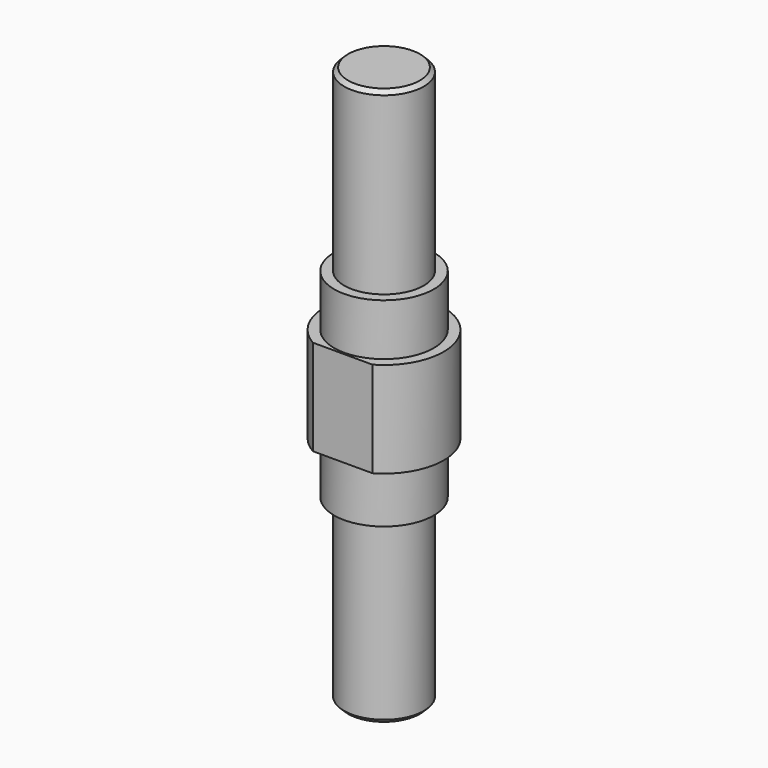
from build123d import *

# Parameters (mm, degrees)
F3_DEPTH      = 25
F3_DEPTH_BACK = 25
F4_SIZE       = 1


with BuildPart() as f1:
    # F0 (on Front) → F1 (revolve)
    with BuildSketch(Plane.XZ):
        Polygon((-12.5, 12), (-15, 12), (-15, 0), (-15, -12), (-12.5, -12), (-12.5, -25), (-10, -25), (-10, -70), (0, -70), (0, 0), (0, 70), (-10, 70), (-10, 25), (-12.5, 25), align=None)
    revolve(axis=Axis((0, 0, 35), (0, 0, -1)))

    # F2 (on Top) → F3 (cut, two sides)
    with BuildSketch(Plane.XY) as f3_sk:
        Polygon((0, -13), (-15, -13), (-15, -17), (0, -17), (15, -17), (15, -13), align=None)
    extrude(amount=F3_DEPTH, mode=Mode.SUBTRACT)
    extrude(f3_sk.sketch, amount=-F3_DEPTH_BACK, mode=Mode.SUBTRACT)

    # F4
    f4_edges = [f1.edges().sort_by_distance(p)[0] for p in [
        (10, 0, 70),
        (10, 0, -70),
    ]]
    chamfer(f4_edges, length=F4_SIZE)


solid = f1.part
